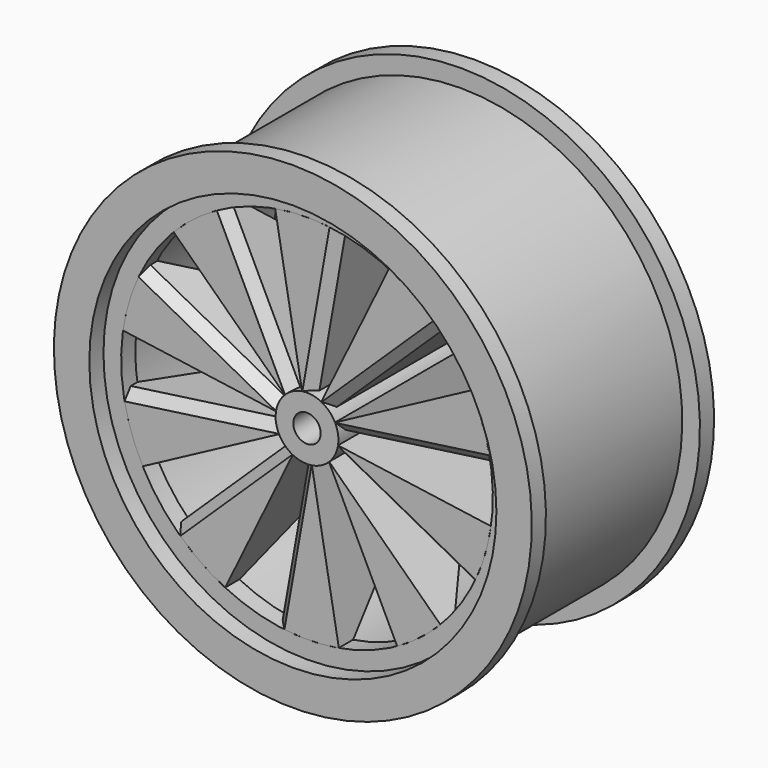
from build123d import *

# Parameters (mm, degrees)
SKETCH002_W        = 20.75
SKETCH002_H        = 2
PAD_DEPTH          = 20.75
CHAMFER_SIZE       = 1.0606847018
POLARPATTERN_COUNT = 10


with BuildPart() as wheelrimbody:
    # Sketch → Revolution (revolve)
    with BuildSketch(Plane.YZ):
        Polygon((-10.875, 25.0000000006), (10.875, 25), (10.875, 27), (12.875, 27), (12.875, 23), (-8.875, 23), (-8.875, 21), (-10.875, 21), (-10.875, 23), (-12.875, 23), (-12.875, 27.0000000006), (-10.875, 27.0000000006), align=None)
    revolve(axis=Axis((0, 0, 0), (0, 1, 0)))


with BuildPart() as wheelaxleandspokesbody:
    # Sketch002 → Revolution001 (revolve)
    with BuildSketch(Plane.YZ):
        with Locations((-0.5, 2.55)):
            Rectangle(SKETCH002_W, SKETCH002_H)
    revolve(axis=Axis((0, 0, 0), (0, 1, 0)))

    # Sketch001 (on DatumPlane) → Pad (new body)
    with BuildSketch(Plane(origin=(0, -10.875, 0), x_dir=(0, 0, -1), z_dir=(0, -1, 0))):
        with BuildLine():
            ThreePointArc((20.689476759, -3.5979926959), (21, 0), (20.689476759, 3.5979926959))
            Line((3.5062936091, 0.5553423509), (20.689476759, 3.5979926959))
            ThreePointArc((3.5062936091, -0.5553423509), (3.55, 0), (3.5062936091, 0.5553423509))
            Line((3.5062936091, -0.5553423509), (20.689476759, -3.5979926959))
        make_face()
    extrude(amount=-PAD_DEPTH)

    with BuildSketch(Plane(origin=(0.5553423509, 9.875, -3.5062936091), x_dir=(0.1743590483, 0, -0.9846821428), z_dir=(0.9846821428, 0, 0.1743590483))):
        Polygon((0, 0), (17.46, -18.75), (17.46, 0), align=None)
    revolve(axis=Axis((0, 0, 0), (0, 1, 0)), mode=Mode.SUBTRACT)

    # Chamfer
    chamfer_edges = [wheelaxleandspokesbody.edges().sort_by_distance(p)[0] for p in [
        (-2.076668, -10.875, -12.097885),
    ]]
    chamfer(chamfer_edges, length=CHAMFER_SIZE)

    # PolarPattern: WheelAxleAndSpokesBody ×10 about axis
    polarpattern_axis = Axis((0, 0, 0), (0, 1, 0))


with BuildPart() as wheelaxleandspokesbody_1:
    add(wheelaxleandspokesbody.part)
    for i in range(1, POLARPATTERN_COUNT):
        add(wheelaxleandspokesbody.part.rotate(polarpattern_axis, i * 360 / POLARPATTERN_COUNT))


solid = Compound([wheelrimbody.part, wheelaxleandspokesbody_1.part])
